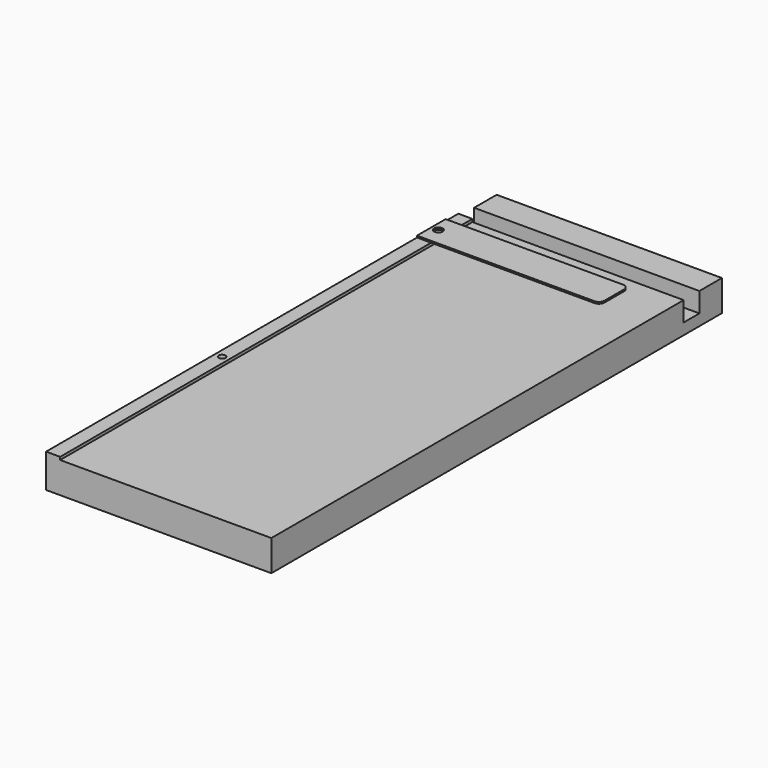
from build123d import *

# Parameters (mm, degrees)
F1_DEPTH = 80
F2_W     = 5
F2_H     = 183
F3_DEPTH = 1
F5_D     = 2.4
F5_DEPTH = 7.2
F5_TIP   = 0.7210327428
F6_R     = 1.55
F7_DEPTH = 0.6


with BuildPart() as f1:
    # F0 (on Right) → F1 (new body)
    with BuildSketch(Plane.YZ):
        Polygon((183, 0), (0, 0), (0, -11), (200, -11), (200, 0), (190, 0), (190, -7), (183, -7), align=None)
    extrude(amount=-F1_DEPTH)

    # F2 (on face) → F3 (join)
    with BuildSketch(Plane.XY):
        with Locations((-77.5, 91.5)):
            Rectangle(F2_W, F2_H)
    extrude(amount=F3_DEPTH)

    # F5
    with Locations(Plane.XY.offset(1)):
        with Locations((-77.5, 171), (-77.5, 75)):
            Hole(F5_D / 2, depth=F5_DEPTH)
            with Locations((0, 0, -(F5_DEPTH + F5_TIP / 2))):  # 118° drill point
                Cone(0, F5_D / 2, F5_TIP, mode=Mode.SUBTRACT)


with BuildPart() as f7:
    # F6 (on face) → F7 (new body)
    with BuildSketch(Plane.XY.offset(1)):
        with BuildLine():
            Line((-17, 177.35), (-80, 177.35))
            Line((-80, 177.35), (-80, 164.65))
            Line((-80, 164.65), (-17, 164.65))
            ThreePointArc((-17, 164.65), (-15.5857864376, 165.2357864376), (-15, 166.65))
            Line((-15, 166.65), (-15, 175.35))
            ThreePointArc((-15, 175.35), (-15.5857864376, 176.7642135624), (-17, 177.35))
        make_face()
        with Locations((-77.5, 171)):
            Circle(F6_R, mode=Mode.SUBTRACT)
    extrude(amount=F7_DEPTH)


solid = Compound([f1.part, f7.part])
